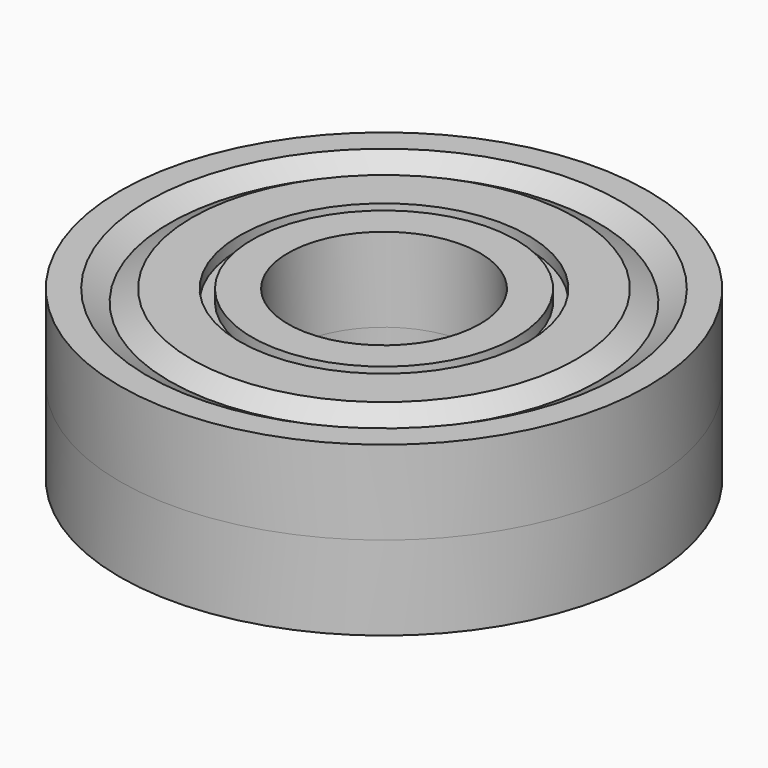
from build123d import *


with BuildPart() as part:
    # Sketch → Revolution (revolve)
    with BuildSketch(Plane.XZ):
        Polygon((4, 0), (4, 3.5), (5.5, 3.5), (5.5, 3), (6, 3), (6, 3.5), (8, 3.5), (8.925, 3), (9.85, 3.5), (11, 3.5), (11, 0), align=None)
    revolution = revolve(axis=Axis((0, 0, 0), (0, 0, 1)))

    # Mirrored: Revolution across XY
    add(revolution.mirror(Plane.XY))


solid = part.part
